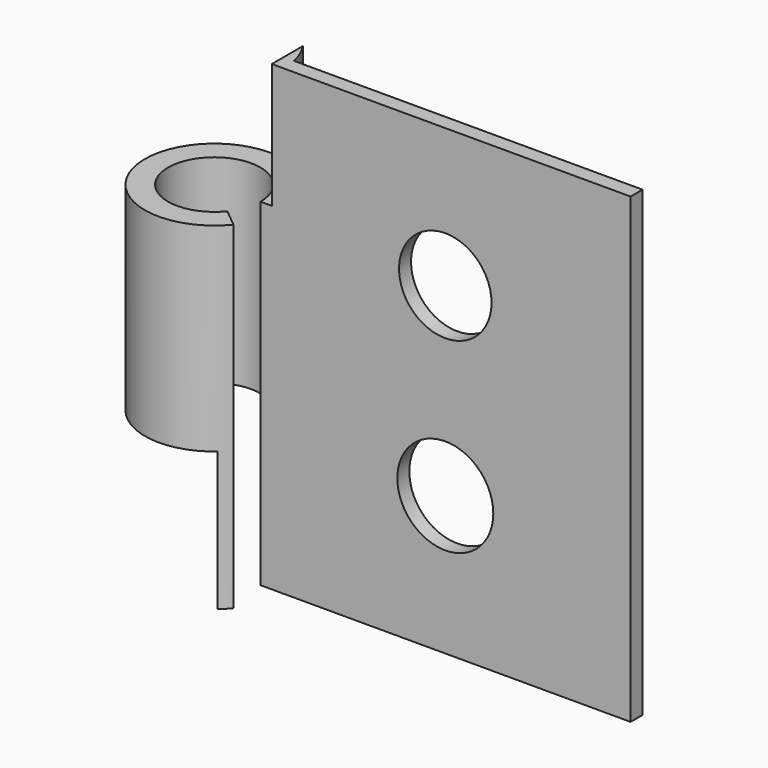
from build123d import *

# Parameters (mm, degrees)
F1_DEPTH = 63.5
F2_R     = 6.35
F2_R_2   = 6.589045
F3_DEPTH = 9.526
F4_W     = 29.302539
F4_H     = 19.05
F4_W_2   = 28.424359
F5_DEPTH = 12.7


with BuildPart() as f1:
    # F0 (on Top) → F1 (new body)
    with BuildSketch(Plane.XY):
        with BuildLine():
            ThreePointArc((4.965456, -3.958124), (-5.993878, 2.096646), (6.35, 0))
            Line((6.35, 0), (57.15, 0))
            Line((57.15, 0), (57.15, 2.05693))
            Line((57.15, 2.05693), (9.300251, 2.05693))
            ThreePointArc((9.300251, 2.05693), (-9.272442, 2.178863), (7.410832, -5.983744))
            Line((7.410832, -5.983744), (4.965456, -3.958124))
        make_face()
    extrude(amount=F1_DEPTH)

    # F2 (on face) → F3 (cut, through all)
    with BuildSketch(Plane.XZ):
        with Locations((31.714201, 44.45)):
            Circle(F2_R)
        with Locations((31.714201, 19.05)):
            Circle(F2_R_2)
    extrude(amount=-F3_DEPTH, mode=Mode.SUBTRACT)

    # F4 (on face) → F5 (cut, symmetric)
    with BuildSketch(Plane.XZ):
        with Locations((-8.445638, 9.525)):
            Rectangle(F4_W, F4_H)
        with Locations((-6.318135, 55.88594)):
            Rectangle(F4_W_2, F4_H)
    extrude(amount=F5_DEPTH, both=True, mode=Mode.SUBTRACT)


solid = f1.part
